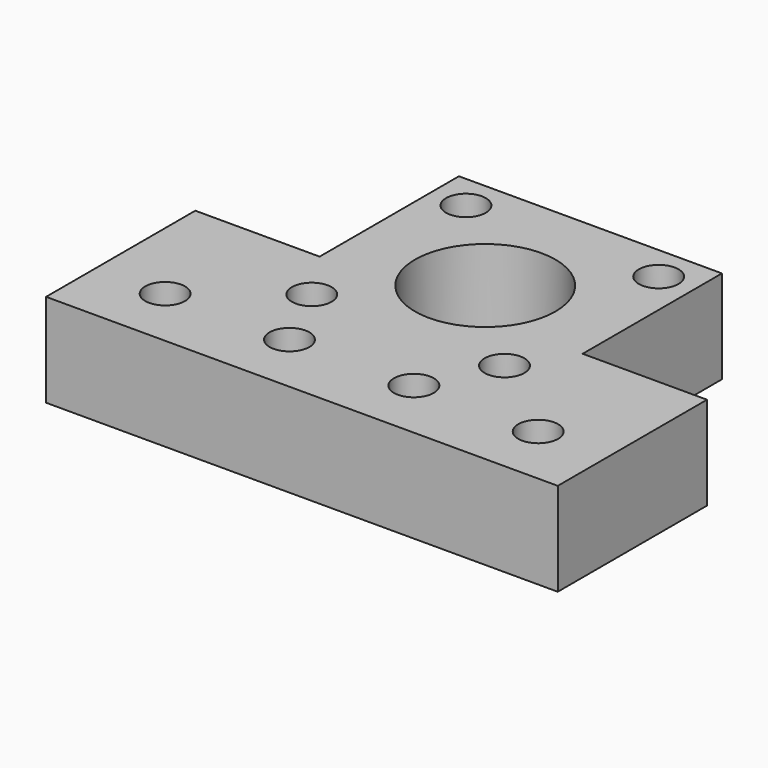
from build123d import *

# Parameters (mm, degrees)
SKETCH_R        = 11.3
SKETCH_R_2      = 1.6
SKETCH_R_3      = 3.2
PAD_DEPTH       = 15
SKETCH001_R     = 3.2
POCKET_DEPTH    = 3.4
SKETCH002_R     = 6.1
POCKET001_DEPTH = 4


with BuildPart() as part:
    # Sketch → Pad (new body)
    with BuildSketch(Plane.XY):
        Polygon((20, 30), (20, 58), (62.3, 58), (62.3, 30), (82.3, 30), (82.3, 0), (0, 0), (0, 30), align=None)
        with Locations((41.15, 36.85)):
            Circle(SKETCH_R, mode=Mode.SUBTRACT)
        with Locations((25.65, 52.35)):
            Circle(SKETCH_R_2, mode=Mode.SUBTRACT)
        with Locations((25.65, 21.35)):
            Circle(SKETCH_R_2, mode=Mode.SUBTRACT)
        with Locations((56.65, 52.35)):
            Circle(SKETCH_R_2, mode=Mode.SUBTRACT)
        with Locations((56.65, 21.35)):
            Circle(SKETCH_R_2, mode=Mode.SUBTRACT)
        with Locations((11.15, 10)):
            Circle(SKETCH_R_3, mode=Mode.SUBTRACT)
        with Locations((31.15, 10)):
            Circle(SKETCH_R_3, mode=Mode.SUBTRACT)
        with Locations((51.15, 10)):
            Circle(SKETCH_R_3, mode=Mode.SUBTRACT)
        with Locations((71.15, 10)):
            Circle(SKETCH_R_3, mode=Mode.SUBTRACT)
    extrude(amount=PAD_DEPTH)

    # Sketch001 (on Face19 of Pad) → Pocket (cut)
    with BuildSketch(Plane.XY.offset(15)):
        with Locations((25.65, 52.35)):
            Circle(SKETCH001_R)
        with Locations((56.65, 52.35)):
            Circle(SKETCH001_R)
        with Locations((56.65, 21.35)):
            Circle(SKETCH001_R)
        with Locations((25.65, 21.35)):
            Circle(SKETCH001_R)
    extrude(amount=-POCKET_DEPTH, mode=Mode.SUBTRACT)

    # Sketch002 (on Face4 of Pocket) → Pocket001 (cut)
    with BuildSketch(Plane(origin=(0, 0, 0), x_dir=(1, 0, 0), z_dir=(0, 0, -1))):
        with Locations((11.15, -10)):
            Circle(SKETCH002_R)
        with Locations((31.15, -10)):
            Circle(SKETCH002_R)
        with Locations((51.15, -10)):
            Circle(SKETCH002_R)
        with Locations((71.15, -10)):
            Circle(SKETCH002_R)
    extrude(amount=-POCKET001_DEPTH, mode=Mode.SUBTRACT)


solid = part.part
